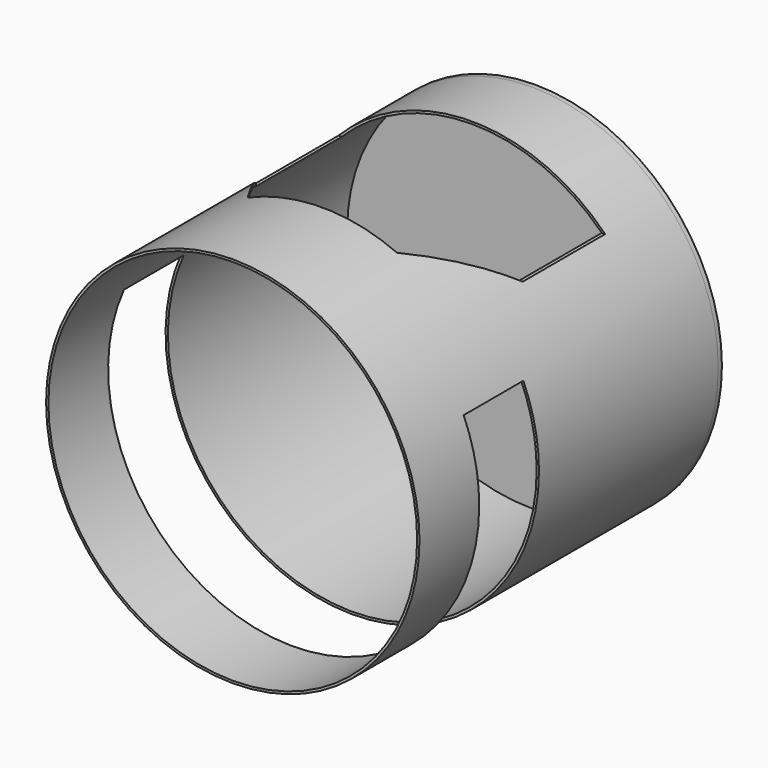
from build123d import *

# Parameters (mm, degrees)
F0_R          = 127
F0_R_2        = 125.4125
F1_DEPTH      = 254
F2_W          = 279.4
F2_H          = 50.8
F3_DEPTH      = 203.2
F3_DEPTH_BACK = 50.8
F6_DEPTH      = 76.2
F7_R          = 126.9814076924
F8_DEPTH      = 3.175


with BuildPart() as f1:
    # F0 (on Front) → F1 (new body)
    with BuildSketch(Plane.XZ):
        Circle(F0_R)
        Circle(F0_R_2, mode=Mode.SUBTRACT)
    extrude(amount=-F1_DEPTH)

    # F2 (on Top) → F3 (cut, two sides)
    with BuildSketch(Plane.XY) as f3_sk:
        with Locations((0, 76.2)):
            Rectangle(F2_W, F2_H)
    extrude(amount=-F3_DEPTH, mode=Mode.SUBTRACT)
    extrude(f3_sk.sketch, amount=F3_DEPTH_BACK, mode=Mode.SUBTRACT)

    # F5 (on offset) → F6 (cut)
    with BuildSketch(Plane.XY.offset(88.9)):
        Polygon((-50.8, 76.2), (0, 76.2), (50.8, 76.2), (139.7, 203.2), (0, 203.2), (-139.7, 203.2), align=None)
    extrude(amount=F6_DEPTH, mode=Mode.SUBTRACT)

    # F7 (on face) → F8 (join)
    with BuildSketch(Plane(origin=(0, 254, 0), x_dir=(-1, 0, 0), z_dir=(0, 1, 0))):
        Circle(F7_R)
    extrude(amount=F8_DEPTH)


solid = f1.part
